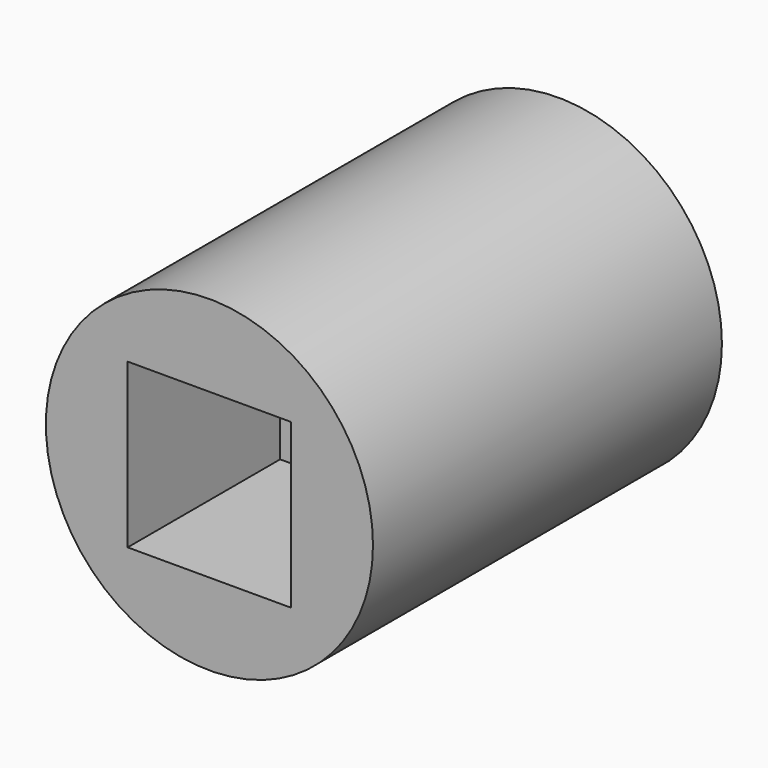
from build123d import *

# Parameters (mm, degrees)
F0_R     = 9.525
F1_DEPTH = 25.4
F3_DEPTH = 25.401
F4_DEPTH = 11.0998
F6_DEPTH = 9.525


with BuildPart() as f1:
    # F0 (on Front) → F1 (new body)
    with BuildSketch(Plane.XZ):
        Circle(F0_R)
    extrude(amount=F1_DEPTH)

    # F2 (on face) → F3 (cut, through all)
    with BuildSketch(Plane.XZ.offset(25.4)):
        with BuildLine():
            ThreePointArc((4.7625, 0), (3.367596, 3.367596), (0, 4.7625))
            ThreePointArc((0, 4.7625), (-3.367596, 3.367596), (-4.7625, 0))
            ThreePointArc((-4.7625, 0), (-3.367596, -3.367596), (0, -4.7625))
            ThreePointArc((0, -4.7625), (3.367596, -3.367596), (4.7625, 0))
        make_face()
    extrude(amount=-F3_DEPTH, mode=Mode.SUBTRACT)

    # F2 (on face) → F4 (cut)
    with BuildSketch(Plane.XZ.offset(25.4)):
        with BuildLine():
            Line((0, 4.7625), (-4.7625, 4.7625))
            Line((-4.7625, 4.7625), (-4.7625, 0))
            ThreePointArc((-4.7625, 0), (-3.367596, 3.367596), (0, 4.7625))
        make_face()
        with BuildLine():
            Line((4.7625, 4.7625), (0, 4.7625))
            ThreePointArc((0, 4.7625), (3.367596, 3.367596), (4.7625, 0))
            Line((4.7625, 0), (4.7625, 4.7625))
        make_face()
        with BuildLine():
            ThreePointArc((0, -4.7625), (-3.367596, -3.367596), (-4.7625, 0))
            Line((-4.7625, 0), (-4.7625, -4.7625))
            Line((-4.7625, -4.7625), (0, -4.7625))
        make_face()
        with BuildLine():
            Line((4.7625, -4.7625), (4.7625, 0))
            ThreePointArc((4.7625, 0), (3.367596, -3.367596), (0, -4.7625))
            Line((0, -4.7625), (4.7625, -4.7625))
        make_face()
    extrude(amount=-F4_DEPTH, mode=Mode.SUBTRACT)

    # F5 (on face) → F6 (cut)
    with BuildSketch(Plane(origin=(0, 0, 0), x_dir=(-1, 0, 0), z_dir=(0, 1, 0))):
        Polygon((3.65125, 6.324151), (-3.65125, 6.324151), (-7.3025, 0), (-3.65125, -6.324151), (3.65125, -6.324151), (7.3025, 0), align=None)
    extrude(amount=-F6_DEPTH, mode=Mode.SUBTRACT)


solid = f1.part
